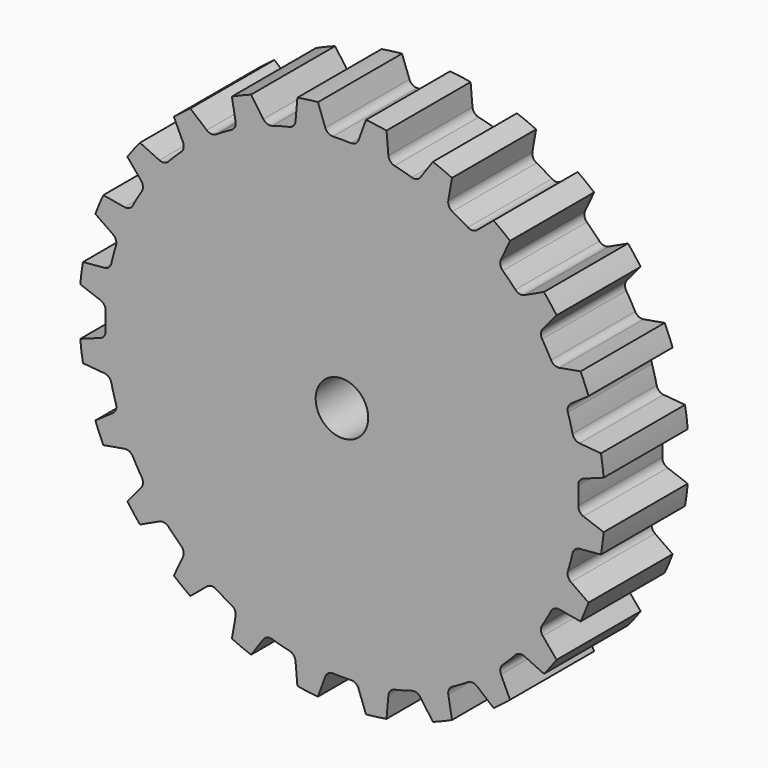
from build123d import *

# Parameters (mm, degrees)
F0_R     = 127
F0_R_2   = 12.7
F1_DEPTH = 25.4
F3_DEPTH = 25.4
F4_COUNT = 24


with BuildPart() as f1:
    # F0 (on Front) → F1 (new body, symmetric)
    with BuildSketch(Plane.XZ):
        Circle(F0_R)
        Circle(F0_R_2, mode=Mode.SUBTRACT)
    extrude(amount=F1_DEPTH, both=True)

    # F2 (on Front) → F3 (cut, symmetric)
    with BuildSketch(Plane.XZ):
        with BuildLine():
            Line((8.0461568185, 116.7224411163), (11.5938649985, 126.4696892318))
            ThreePointArc((11.5938649985, 126.4696892318), (0, 127), (-11.5938649985, 126.4696892318))
            Line((-11.5938649985, 126.4696892318), (-8.0461568185, 116.7224411163))
            ThreePointArc((-8.0461568185, 116.7224411163), (-6.5918484605, 114.8638038584), (-4.3218657419, 114.2182624474))
            ThreePointArc((-4.3218657419, 114.2182624474), (0, 114.3), (4.3218657419, 114.2182624474))
            ThreePointArc((4.3218657419, 114.2182624474), (6.5918484605, 114.8638038584), (8.0461568185, 116.7224411163))
        make_face()
    f3 = extrude(amount=F3_DEPTH, both=True, mode=Mode.SUBTRACT)

    # F4: F3 ×24 about axis
    f4_axis = Axis((0, 0, 0), (0, -1, 0))
    for i in range(1, F4_COUNT):
        add(f3.rotate(f4_axis, i * 360 / F4_COUNT), mode=Mode.SUBTRACT)


solid = f1.part
